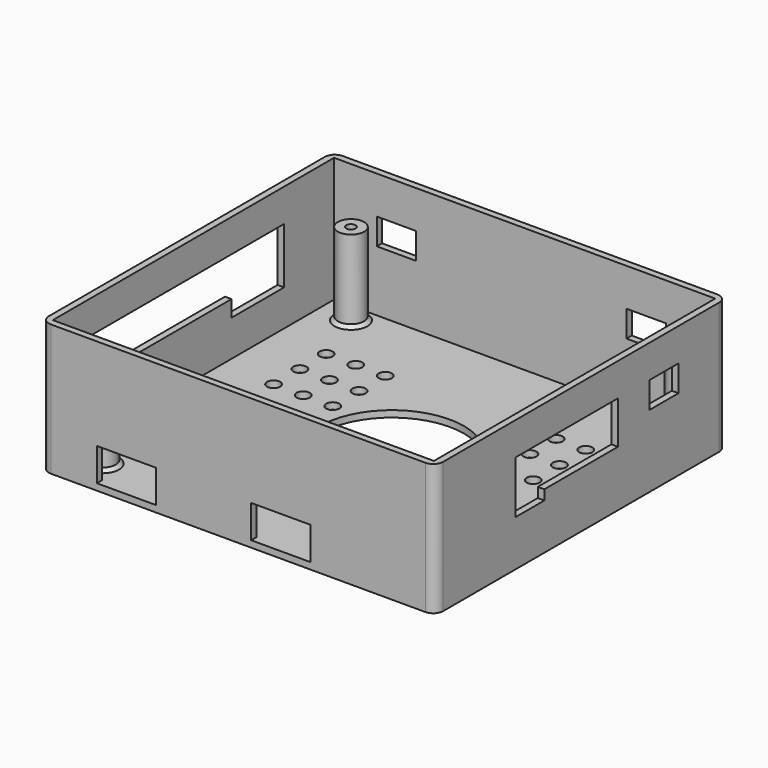
from build123d import *

# Parameters (mm, degrees)
SKETCH005_R                               = 22
SKETCH005_R_2                             = 12
SKETCH005_R_3                             = 2
EXTRUDE005_DEPTH                          = 10
SKETCH004_AS_DRAWN_R                      = 3.2
SKETCH004_AS_DRAWN_W                      = 12
SKETCH004_AS_DRAWN_H                      = 8
EXTRUDE004_DEPTH                          = 5
EXTRUDE004_ONTO_SKETCH004_ROLL_ANGLE      = 90
EXTRUDE004_ONTO_SKETCH004_PLACEMENT_ANGLE = 180
EXTRUDE003_DEPTH                          = 3
SKETCH002_W                               = 11
SKETCH002_H                               = 8
EXTRUDE002_DEPTH                          = 5
SKETCH_AS_DRAWN_W                         = 18
SKETCH_AS_DRAWN_H                         = 10
EXTRUDE_DEPTH                             = 5
EXTRUDE_ONTO_SKETCH_ROLL_ANGLE            = 90
SKETCH001_R                               = 4
SKETCH001_R_2                             = 1.4
SKETCH001_R_3                             = 2.75
EXTRUDE001_DEPTH                          = 25
BOX001_W                                  = 116
BOX001_H                                  = 107
BOX001_DEPTH                              = 40
BOX_W                                     = 120
BOX_H                                     = 111
BOX_DEPTH                                 = 40
FILLET_R                                  = 3
CHAMFER_SIZE                              = 1


with BuildPart() as extrude_lite:
    # Sketch005 → Extrude005 (new body)
    with BuildSketch(Plane.XY.offset(2)):
        Circle(SKETCH005_R)
        with Locations((-37, -29)):
            Circle(SKETCH005_R_2)
        with Locations((37, -29)):
            Circle(SKETCH005_R_2)
        with Locations((-44, 30)):
            Circle(SKETCH005_R_3)
        with Locations((-35, 30)):
            Circle(SKETCH005_R_3)
        with Locations((-26, 30)):
            Circle(SKETCH005_R_3)
        with Locations((-26, 20)):
            Circle(SKETCH005_R_3)
        with Locations((-35, 20)):
            Circle(SKETCH005_R_3)
        with Locations((-44, 20)):
            Circle(SKETCH005_R_3)
        with Locations((-44, 10)):
            Circle(SKETCH005_R_3)
        with Locations((-35, 10)):
            Circle(SKETCH005_R_3)
        with Locations((-26, 10)):
            Circle(SKETCH005_R_3)
        with Locations((-44, 0)):
            Circle(SKETCH005_R_3)
        with Locations((-35, 0)):
            Circle(SKETCH005_R_3)
        with Locations((-26, 0)):
            Circle(SKETCH005_R_3)
        with Locations((26, 0)):
            Circle(SKETCH005_R_3)
        with Locations((35, 0)):
            Circle(SKETCH005_R_3)
        with Locations((44, 0)):
            Circle(SKETCH005_R_3)
        with Locations((44, 10)):
            Circle(SKETCH005_R_3)
        with Locations((44, 20)):
            Circle(SKETCH005_R_3)
        with Locations((44, 30)):
            Circle(SKETCH005_R_3)
        with Locations((35, 30)):
            Circle(SKETCH005_R_3)
        with Locations((26, 30)):
            Circle(SKETCH005_R_3)
        with Locations((26, 20)):
            Circle(SKETCH005_R_3)
        with Locations((35, 20)):
            Circle(SKETCH005_R_3)
        with Locations((35, 10)):
            Circle(SKETCH005_R_3)
        with Locations((26, 10)):
            Circle(SKETCH005_R_3)
    extrude(amount=-EXTRUDE005_DEPTH)


with BuildPart() as extrude_antenna:
    # Sketch004 as drawn → Extrude004 (new)
    with BuildSketch(Plane.XY):
        with Locations((-25, 10)):
            Circle(SKETCH004_AS_DRAWN_R)
        with Locations((-35, 24.5)):
            Rectangle(SKETCH004_AS_DRAWN_W, SKETCH004_AS_DRAWN_H)
        with Locations((41, 24.5)):
            Rectangle(SKETCH004_AS_DRAWN_W, SKETCH004_AS_DRAWN_H)
    extrude(amount=-EXTRUDE004_DEPTH)


with BuildPart() as extrude_antenna_1:
    # Extrude004 onto Sketch004 roll: moved
    add(extrude_antenna.part.rotate(Axis((0, 0, 0), (1, 0, 0)), EXTRUDE004_ONTO_SKETCH004_ROLL_ANGLE))


with BuildPart() as extrude_antenna_2:
    # Extrude004 onto Sketch004 placement: moved
    add(extrude_antenna_1.part.moved(Location((0, 55, 0))).rotate(Axis((0, 55, 0), (0, 0, 1)), EXTRUDE004_ONTO_SKETCH004_PLACEMENT_ANGLE))


with BuildPart() as extrude_pwm:
    # Sketch003 → Extrude003 (new body)
    with BuildSketch(Plane(origin=(-62, 0, 0), x_dir=(0, -1, 0), z_dir=(-1, 0, 0))):
        Polygon((-34, 30), (45, 30), (45, 18), (-14, 18), (-14, 13), (-34, 13), align=None)
    extrude(amount=-EXTRUDE003_DEPTH)


with BuildPart() as extrude_wall_plug:
    # Sketch002 → Extrude002 (new body)
    with BuildSketch(Plane.YZ.offset(58)):
        Polygon((-25.5, 30), (13.5, 30), (13.5, 17), (-14.5, 17), (-14.5, 14), (-25.5, 14), align=None)
        with Locations((31, 26)):
            Rectangle(SKETCH002_W, SKETCH002_H)
    extrude(amount=-EXTRUDE002_DEPTH)


with BuildPart() as extrude_battery:
    # Sketch as drawn → Extrude (new)
    with BuildSketch(Plane.XY):
        with Locations((11, 7)):
            Rectangle(SKETCH_AS_DRAWN_W, SKETCH_AS_DRAWN_H)
        with Locations((-36, 7)):
            Rectangle(SKETCH_AS_DRAWN_W, SKETCH_AS_DRAWN_H)
    extrude(amount=-EXTRUDE_DEPTH)


with BuildPart() as extrude_battery_1:
    # Extrude onto Sketch roll: moved
    add(extrude_battery.part.rotate(Axis((0, 0, 0), (1, 0, 0)), EXTRUDE_ONTO_SKETCH_ROLL_ANGLE))


with BuildPart() as extrude_battery_2:
    # Extrude onto Sketch placement: moved
    add(extrude_battery_1.part.moved(Location((0, -56, 0))))


with BuildPart() as mount_extrude:
    # Sketch001 → Extrude001 (new body)
    with BuildSketch(Plane.XY.offset(2)):
        with Locations((-50.25, -47.25)):
            Circle(SKETCH001_R)
        with Locations((-50.25, -47.25)):
            Circle(SKETCH001_R_2, mode=Mode.SUBTRACT)
        with Locations((50.25, 47.25)):
            Circle(SKETCH001_R)
        with Locations((50.25, 47.25)):
            Circle(SKETCH001_R_2, mode=Mode.SUBTRACT)
        with Locations((-50.25, 47.25)):
            Circle(SKETCH001_R)
        with Locations((-50.25, 47.25)):
            Circle(SKETCH001_R_2, mode=Mode.SUBTRACT)
        with Locations((25.25, -42.25)):
            Circle(SKETCH001_R)
        with Locations((25.25, -42.25)):
            Circle(SKETCH001_R_2, mode=Mode.SUBTRACT)
        with Locations((51.25, -50.25)):
            Circle(SKETCH001_R_3)
        with Locations((-14.75, -39.25)):
            Circle(SKETCH001_R)
        with Locations((-14.75, -39.25)):
            Circle(SKETCH001_R_2, mode=Mode.SUBTRACT)
    extrude(amount=EXTRUDE001_DEPTH)


with BuildPart() as inner:
    # Box001 → Box001 (new body)
    with BuildSketch(Plane(origin=(-60, -54, 2), x_dir=(1, 0, 0), z_dir=(0, 0, 1))):
        with Locations((58, 53.5)):
            Rectangle(BOX001_W, BOX001_H)
    extrude(amount=BOX001_DEPTH)


with BuildPart() as chamfer_body:
    # Box → Box (new body)
    with BuildSketch(Plane(origin=(-62, -56, 0), x_dir=(1, 0, 0), z_dir=(0, 0, 1))):
        with Locations((60, 55.5)):
            Rectangle(BOX_W, BOX_H)
    extrude(amount=BOX_DEPTH)

    # Cut: cut Inner
    add(inner.part, mode=Mode.SUBTRACT)

    # Fusion: union Mount Extrude
    add(mount_extrude.part)

    # Cut001: cut Extrude Battery
    add(extrude_battery_2.part, mode=Mode.SUBTRACT)

    # Cut002: cut Extrude Wall Plug
    add(extrude_wall_plug.part, mode=Mode.SUBTRACT)

    # Cut003: cut Extrude PWM
    add(extrude_pwm.part, mode=Mode.SUBTRACT)

    # Cut004: cut Extrude Antenna
    add(extrude_antenna_2.part, mode=Mode.SUBTRACT)

    # Cut005: cut Extrude Lite
    add(extrude_lite.part, mode=Mode.SUBTRACT)

    # Fillet
    fillet_edges = [chamfer_body.edges().sort_by_distance(p)[0] for p in [
        (-62, -56, 20),
        (-62, 55, 20),
        (58, -56, 20),
        (58, 55, 20),
    ]]
    fillet(fillet_edges, radius=FILLET_R)

    # Chamfer
    chamfer_edges = [chamfer_body.edges().sort_by_distance(p)[0] for p in [
        (21.25, -42.25, 2),
        (-54.25, -47.25, 2),
        (-18.75, -39.25, 2),
        (46.25, 47.25, 2),
        (-54.25, 47.25, 2),
    ]]
    chamfer(chamfer_edges, length=CHAMFER_SIZE)


solid = chamfer_body.part
